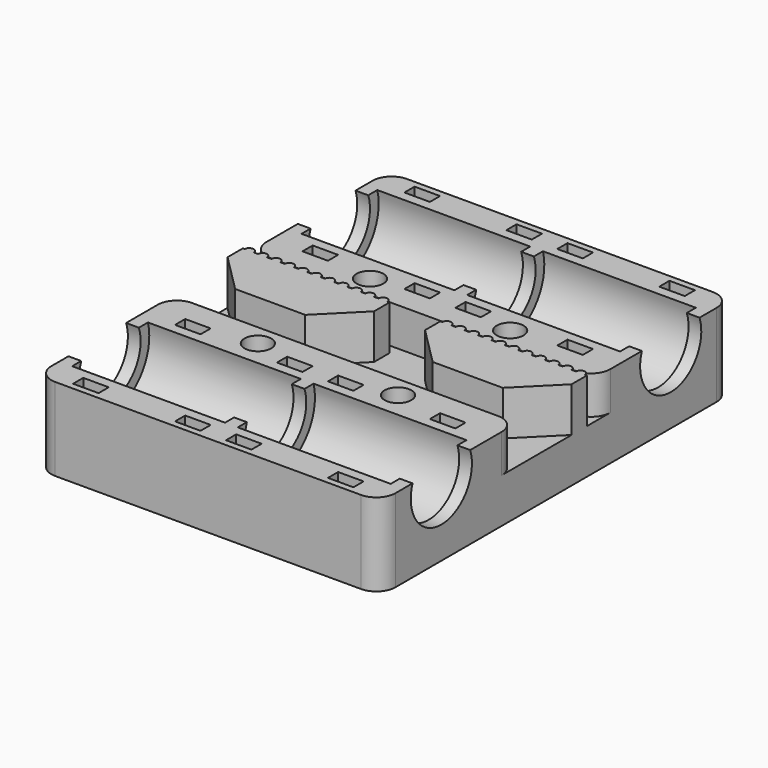
from build123d import *

# Parameters (mm, degrees)
PAD_DEPTH              = 27
SKETCH001_W            = 5
SKETCH001_H            = 5
POCKET_DEPTH           = 2
SKETCH002_R            = 7.7
POCKET001_DEPTH        = 24
SKETCH003_W            = 2
SKETCH003_H            = 3
POCKET002_DEPTH        = 1
POCKET003_DEPTH        = 4
LINEARPATTERN_COUNT    = 2
LINEARPATTERN_PITCH    = 16
SKETCH005_R            = 2.1
POCKET004_DEPTH        = 13.001
SKETCH006_W            = 23
SKETCH006_H            = 9
PAD001_DEPTH           = 7
PAD002_DEPTH           = 7
LINEARPATTERN001_COUNT = 11
LINEARPATTERN001_PITCH = 2.1
SKETCH008_R            = 6
POCKET005_DEPTH        = 179.460855
POCKET005_DEPTH_BACK   = 229.460855
CHAMFER_SIZE           = 6
FILLET_R               = 3


with BuildPart() as pocket004:
    # Sketch → Pad (new body)
    with BuildSketch(Plane.YZ):
        Polygon((0, 0), (34.5, 0), (34.5, 13), (7.65, 13), (7.65, 7), (0, 7), align=None)
    extrude(amount=PAD_DEPTH)

    # Sketch001 → Pocket (cut)
    with BuildSketch(Plane(origin=(0, 0, 13), x_dir=(0, -1, 0), z_dir=(0, 0, 1))):
        with Locations((-22.5, 22.5)):
            Rectangle(SKETCH001_W, SKETCH001_H)
    extrude(amount=-POCKET_DEPTH, mode=Mode.SUBTRACT)

    # Sketch002 → Pocket001 (cut)
    with BuildSketch(Plane(origin=(25, 0, 0), x_dir=(0, 1, 0), z_dir=(-1, 0, 0))):
        with Locations((22.5, -11)):
            Circle(SKETCH002_R)
    extrude(amount=POCKET001_DEPTH, mode=Mode.SUBTRACT)

    # Sketch003 → Pocket002 (cut)
    with BuildSketch(Plane(origin=(0, 0, 13), x_dir=(0, -1, 0), z_dir=(0, 0, 1))):
        with Locations((-32.5, 20.5)):
            Rectangle(SKETCH003_W, SKETCH003_H)
    extrude(amount=-POCKET002_DEPTH, mode=Mode.SUBTRACT)

    # Sketch004 → Pocket003 (cut)
    with BuildSketch(Plane(origin=(22, 0, 0), x_dir=(0, 1, 0), z_dir=(-1, 0, 0))):
        with BuildLine():
            ThreePointArc((31.5, -11), (22.5, -2), (13.5, -11))
            Line((13.5, -11), (13.5, -14))
            Line((13.5, -14), (11.5, -14))
            Line((11.5, -14), (11.5, -11))
            ThreePointArc((17.5, -1.202041), (13.119168, -5.255437), (11.5, -11))
            Line((17.5, 0), (17.5, -1.202041))
            Line((27.5, 0), (17.5, 0))
            Line((27.5, -1.202041), (27.5, 0))
            ThreePointArc((33.5, -11), (31.880832, -5.255437), (27.5, -1.202041))
            Line((33.5, -14), (33.5, -11))
            Line((31.5, -14), (33.5, -14))
            Line((31.5, -11), (31.5, -14))
        make_face()
    pocket003 = extrude(amount=POCKET003_DEPTH, mode=Mode.SUBTRACT)

    # LinearPattern: Pocket003 ×2
    with Locations(*[(-i * LINEARPATTERN_PITCH, 0, 0) for i in range(1, LINEARPATTERN_COUNT)]):
        add(pocket003, mode=Mode.SUBTRACT)

    # Sketch005 → Pocket004 (cut, through all)
    with BuildSketch(Plane(origin=(0, 0, 13), x_dir=(0, -1, 0), z_dir=(0, 0, 1))):
        with Locations((-11, 11)):
            Circle(SKETCH005_R)
    extrude(amount=-POCKET004_DEPTH, mode=Mode.SUBTRACT)


with BuildPart() as linearpattern001:
    # Part__Mirroring: instance of Pocket004
    add(pocket004.part.mirror(Plane(origin=(0, 0, 0), x_dir=(1, 0, 0), z_dir=(0, 1, 0))))

    # Fusion: union Pocket004
    add(pocket004.part)

    # Sketch006 → Pad001 (new body)
    with BuildSketch(Plane.XY.offset(7)):
        with Locations((15.5, 1.55)):
            Rectangle(SKETCH006_W, SKETCH006_H)
    extrude(amount=PAD001_DEPTH)

    # Sketch007 → Pad002 (new body)
    with BuildSketch(Plane.XY.offset(14)):
        with BuildLine():
            Line((25.3, 6.05), (26.7, 6.05))
            ThreePointArc((26.7, 6.05), (26, 6.75), (25.3, 6.05))
        make_face()
    pad002 = extrude(amount=-PAD002_DEPTH)

    # LinearPattern001: Pad002 ×11
    with Locations(*[(-i * LINEARPATTERN001_PITCH, 0, 0) for i in range(1, LINEARPATTERN001_COUNT)]):
        add(pad002)


with BuildPart() as fillet_body:
    # Part__Mirroring001: instance of LinearPattern001
    add(linearpattern001.part.mirror(Plane(origin=(0, 0, 0), x_dir=(0, -1, 0), z_dir=(1, 0, 0))))

    # Fusion001: union LinearPattern001
    add(linearpattern001.part)

    # Sketch008 → Pocket005 (cut, two sides)
    with BuildSketch(Plane(origin=(25, 0, 0), x_dir=(0, -1, 0), z_dir=(-1, 0, 0))) as pocket005_sk:
        with Locations((22.5, 11)):
            Circle(SKETCH008_R)
    pocket005 = extrude(amount=-POCKET005_DEPTH, mode=Mode.SUBTRACT) + extrude(pocket005_sk.sketch, amount=POCKET005_DEPTH_BACK, mode=Mode.SUBTRACT)

    # Mirrored: Pocket005 across Sketch008 V_Axis
    add(pocket005.mirror(Plane(origin=(25, 0, 0), x_dir=(-1, 0, 0), z_dir=(0, -1, 0))), mode=Mode.SUBTRACT)

    # Chamfer
    chamfer_edges = [fillet_body.edges().sort_by_distance(p)[0] for p in [
        (-27, -2.95, 10.5),
        (-4, -2.95, 10.5),
        (4, -2.95, 10.5),
        (27, -2.95, 10.5),
    ]]
    chamfer(chamfer_edges, length=CHAMFER_SIZE)

    # Fillet
    fillet_edges = [fillet_body.edges().sort_by_distance(p)[0] for p in [
        (-27, -34.5, 6.5),
        (27, -34.5, 6.5),
        (27, 34.5, 6.5),
        (27, -7.65, 10),
        (27, 7.65, 10),
        (-27, 34.5, 6.5),
        (-27, 7.65, 10),
        (-27, -7.65, 10),
    ]]
    fillet(fillet_edges, radius=FILLET_R)


solid = fillet_body.part
